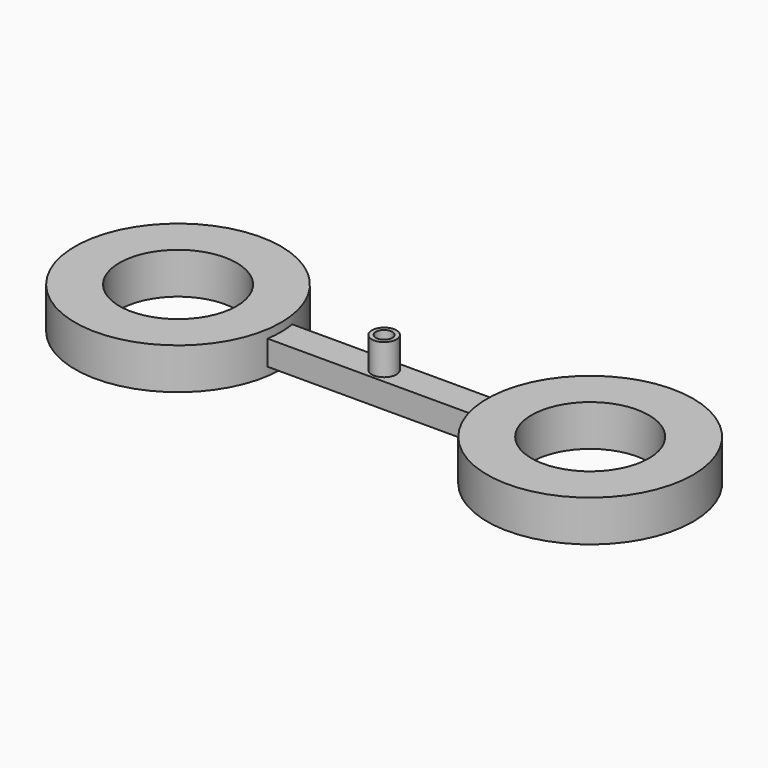
from build123d import *

# Parameters (mm, degrees)
CYLINDER136_R     = 0.2
CYLINDER136_DEPTH = 9
CYLINDER_R        = 1.422
CYLINDER_DEPTH    = 2
CYLINDER139_R     = 1.422
CYLINDER139_DEPTH = 2
CYLINDER138_R     = 0.165
CYLINDER138_DEPTH = 8
CYLINDER142_R     = 2.5
CYLINDER142_DEPTH = 1
CYLINDER141_R     = 2.5
CYLINDER141_DEPTH = 1
CYLINDER140_R     = 0.3
CYLINDER140_DEPTH = 0.75
BOX_W             = 10
BOX_H             = 0.75
BOX_DEPTH         = 0.6


with BuildPart() as bowtienozzle:
    # Cylinder136 → Cylinder136 (new body)
    with BuildSketch(Plane.XY):
        Circle(CYLINDER136_R)
    extrude(amount=CYLINDER136_DEPTH)


with BuildPart() as mountinghole1:
    # Cylinder → Cylinder (new body)
    with BuildSketch(Plane(origin=(-5, 0, -1), x_dir=(1, 0, 0), z_dir=(0, 0, 1))):
        Circle(CYLINDER_R)
    extrude(amount=CYLINDER_DEPTH)


with BuildPart() as mountinghole2:
    # Cylinder139 → Cylinder139 (new body)
    with BuildSketch(Plane(origin=(5, 0, -1), x_dir=(1, 0, 0), z_dir=(0, 0, 1))):
        Circle(CYLINDER139_R)
    extrude(amount=CYLINDER139_DEPTH)


with BuildPart() as fusion001:
    # Cylinder138 → Cylinder138 (new body)
    with BuildSketch(Plane(origin=(0, 0, 0), x_dir=(1, 0, 0), z_dir=(0, 1, 0))):
        Circle(CYLINDER138_R)
    extrude(amount=CYLINDER138_DEPTH)

    # Fusion001: union BowTieNozzle, MountingHole1, MountingHole2
    add(bowtienozzle.part)
    add(mountinghole1.part)
    add(mountinghole2.part)


with BuildPart() as obj1:
    # Cylinder142 → Cylinder142 (new body)
    with BuildSketch(Plane(origin=(5, 0, -0.5), x_dir=(1, 0, 0), z_dir=(0, 0, 1))):
        Circle(CYLINDER142_R)
    extrude(amount=CYLINDER142_DEPTH)


with BuildPart() as obj2:
    # Cylinder141 → Cylinder141 (new body)
    with BuildSketch(Plane(origin=(-5, 0, -0.5), x_dir=(1, 0, 0), z_dir=(0, 0, 1))):
        Circle(CYLINDER141_R)
    extrude(amount=CYLINDER141_DEPTH)


with BuildPart() as nozzle_od:
    # Cylinder140 → Cylinder140 (new body)
    with BuildSketch(Plane.XY.offset(0.3)):
        Circle(CYLINDER140_R)
    extrude(amount=CYLINDER140_DEPTH)


with BuildPart() as cut:
    # Box → Box (new body)
    with BuildSketch(Plane(origin=(-5, -0.375, -0.3), x_dir=(1, 0, 0), z_dir=(0, 0, 1))):
        with Locations((5, 0.375)):
            Rectangle(BOX_W, BOX_H)
    extrude(amount=BOX_DEPTH)

    # Fusion: union obj1, obj2, Nozzle_OD
    add(obj1.part)
    add(obj2.part)
    add(nozzle_od.part)

    # Cut: cut Fusion001
    add(fusion001.part, mode=Mode.SUBTRACT)


solid = cut.part
